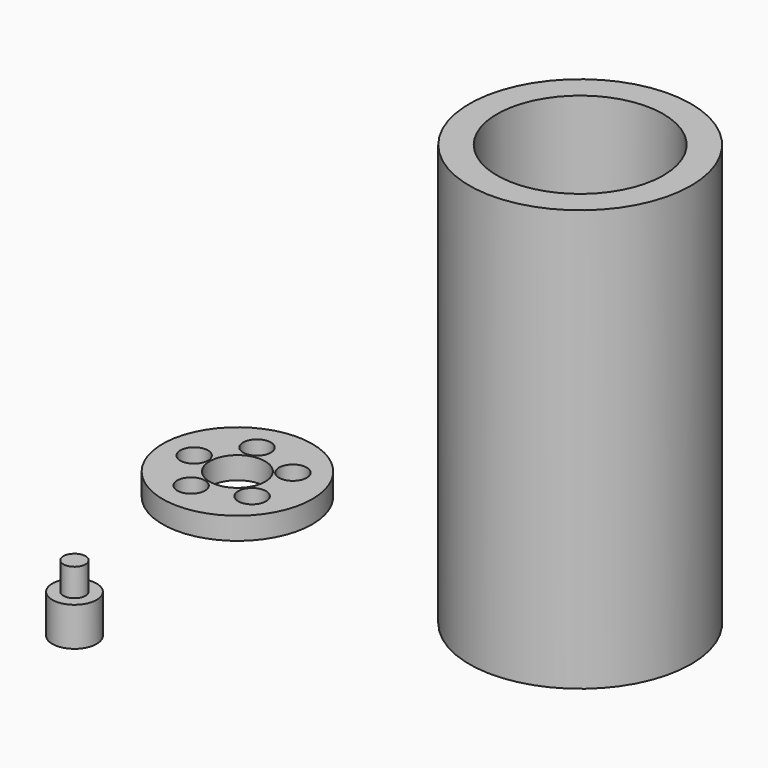
from build123d import *

# Parameters (mm, degrees)
F0_R     = 20
F0_R_2   = 15
F1_DEPTH = 76
F0_R_3   = 13.5
F0_R_4   = 10.5
F0_R_5   = 2.5
F0_R_6   = 5
F2_DEPTH = 4
F0_R_7   = 2
F3_DEPTH = 12
F0_R_8   = 4
F4_DEPTH = 7


with BuildPart() as f1:
    # F0 (on Top) → F1 (new body)
    with BuildSketch(Plane.XY):
        Circle(F0_R)
        Circle(F0_R_2, mode=Mode.SUBTRACT)
    extrude(amount=F1_DEPTH)


with BuildPart() as f2:
    # F0 (on Top) → F2 (new body)
    with BuildSketch(Plane.XY):
        with Locations((-61.8321336806, 0)):
            Circle(F0_R_3)
        with Locations((-61.8321336806, 0)):
            Circle(F0_R_4, mode=Mode.SUBTRACT)
        with Locations((-61.8321336806, 0)):
            Circle(F0_R_4)
        with Locations((-64.2474329288, -7.4335267337)):
            Circle(F0_R_5, mode=Mode.SUBTRACT)
        with Locations((-55.5087981556, -4.5941721777)):
            Circle(F0_R_5, mode=Mode.SUBTRACT)
        with Locations((-69.648206234, 0)):
            Circle(F0_R_5, mode=Mode.SUBTRACT)
        with Locations((-61.8321336806, 0)):
            Circle(F0_R_6, mode=Mode.SUBTRACT)
        with Locations((-64.2474329288, 7.4335267337)):
            Circle(F0_R_5, mode=Mode.SUBTRACT)
        with Locations((-55.5087981556, 4.5941721777)):
            Circle(F0_R_5, mode=Mode.SUBTRACT)
    extrude(amount=F2_DEPTH)


with BuildPart() as f3:
    # F0 (on Top) → F3 (new body)
    with BuildSketch(Plane.XY):
        with Locations((-53.2489009202, -47.4822334945)):
            Circle(F0_R_7)
    extrude(amount=F3_DEPTH)

    # F0 (on Top) → F4 (join)
    with BuildSketch(Plane.XY):
        with Locations((-53.2489009202, -47.4822334945)):
            Circle(F0_R_8)
        with Locations((-53.2489009202, -47.4822334945)):
            Circle(F0_R_7, mode=Mode.SUBTRACT)
    extrude(amount=F4_DEPTH)


solid = Compound([f1.part, f2.part, f3.part])
